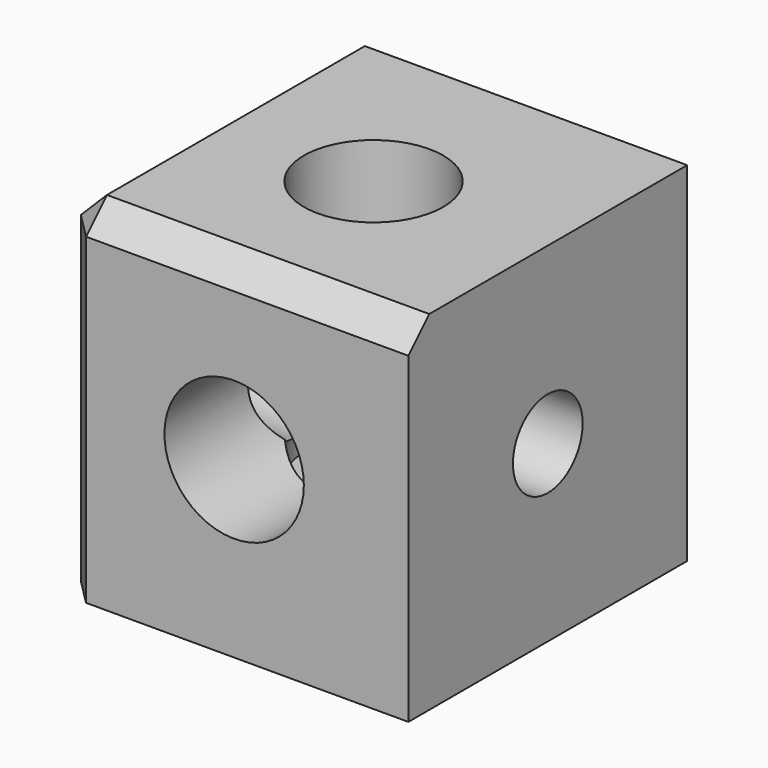
from build123d import *

# Parameters (mm, degrees)
F0_W                 = 25.4
F0_H                 = 25.4
F1_DEPTH             = 25.4
F5_D                 = 6.35
F5_CBORE_D           = 10.16
F5_CBORE_DEPTH       = 19.05
F5_ON_F4_D           = 6.35
F5_ON_F4_CBORE_D     = 10.16
F5_ON_F4_CBORE_DEPTH = 19.05
F5_ON_F3_D           = 6.35
F5_ON_F3_CBORE_D     = 10.16
F5_ON_F3_CBORE_DEPTH = 19.05
F6_SIZE              = 1.905


with BuildPart() as f1:
    # F0 (on Top) → F1 (new body)
    with BuildSketch(Plane.XY):
        Rectangle(F0_W, F0_H)
    extrude(amount=F1_DEPTH)

    # F5 (through all)
    with Locations(Plane.XY.offset(25.4)):
        with Locations((0, 0)):
            CounterBoreHole(F5_D / 2, F5_CBORE_D / 2, F5_CBORE_DEPTH)

    # F5 on F4 (through all)
    with Locations(Plane(origin=(-12.7, 0, 0), x_dir=(0, -1, 0), z_dir=(-1, 0, 0))):
        with Locations((0, 12.7)):
            CounterBoreHole(F5_ON_F4_D / 2, F5_ON_F4_CBORE_D / 2, F5_ON_F4_CBORE_DEPTH)

    # F5 on F3 (through all)
    with Locations(Plane.XZ.offset(12.7)):
        with Locations((0, 12.7)):
            CounterBoreHole(F5_ON_F3_D / 2, F5_ON_F3_CBORE_D / 2, F5_ON_F3_CBORE_DEPTH)

    # F6
    f6_edges = [f1.edges().sort_by_distance(p)[0] for p in [
        (-12.7, 0, 25.4),
        (0, -12.7, 25.4),
        (-12.7, -12.7, 12.7),
    ]]
    chamfer(f6_edges, length=F6_SIZE)


solid = f1.part
